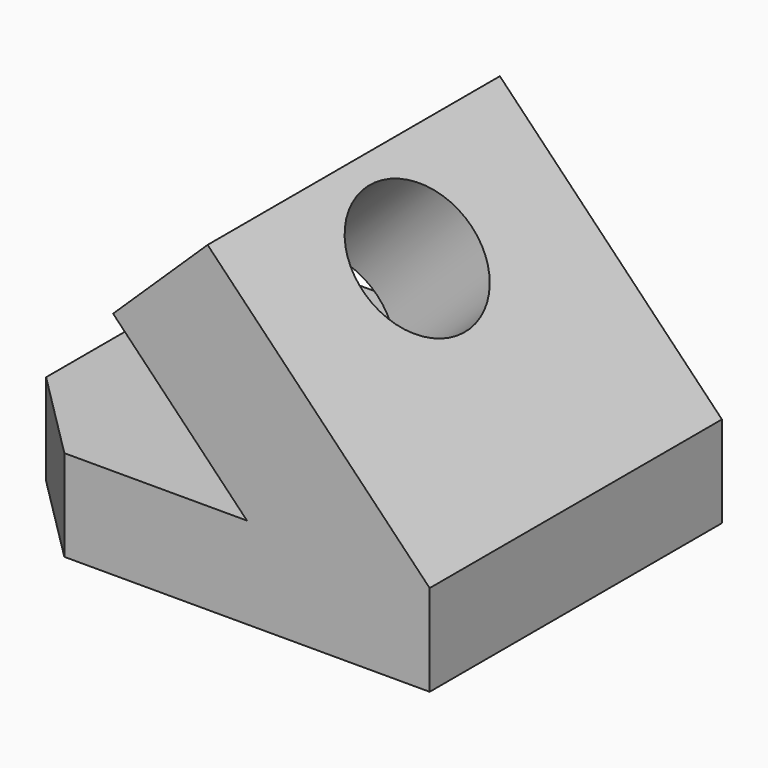
from build123d import *

# Parameters (mm, degrees)
F1_DEPTH = 25.4
F3_W     = 203.2
F3_H     = 177.8
F3_R     = 38.1
F5_DEPTH = 73.084924


with BuildPart() as f1:
    # F0 (on Top) → F1 (new body, symmetric)
    with BuildSketch(Plane.XY):
        Polygon((-50.8, 50.8), (0, 0), (203.2, 0), (203.2, 203.2), (0, 203.2), (-50.8, 152.4), align=None)
    extrude(amount=F1_DEPTH, both=True)

    # F3 (on face) → F5 (join, through all)
    with BuildSketch(Plane(origin=(117.838052, 0, 113.794884), x_dir=(0, 1, 0), z_dir=(0.71934, 0, 0.694658))):
        with Locations((101.6, -33.98335)):
            Rectangle(F3_W, F3_H)
        with Locations((101.6, 4.11665)):
            Circle(F3_R, mode=Mode.SUBTRACT)
    extrude(amount=-F5_DEPTH)


solid = f1.part
